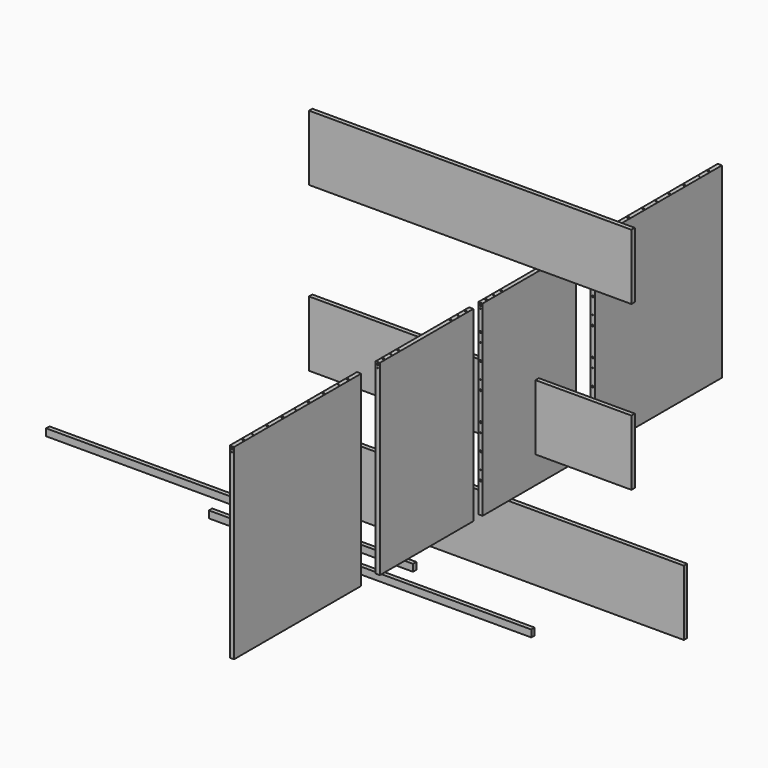
from build123d import *

# Parameters (mm, degrees)
F0_W      = 500
F0_H      = 800
F3_DEPTH  = 18
F4_D      = 4.5
F4_DEPTH  = 10
F4_TIP    = 1.3519363928
F5_D      = 8
F5_DEPTH  = 10
F5_TIP    = 2.4034424761
F6_D      = 5
F6_DEPTH  = 10
F6_TIP    = 1.5021515476
F7_W      = 680
F7_H      = 800
F8_DEPTH  = 18
F10_D     = 4
F11_D     = 8
F12_W     = 1570
F12_H     = 280
F13_DEPTH = 18
F14_W     = 1570
F14_H     = 280
F15_DEPTH = 18
F14_W_2   = 1380
F18_D     = 8
F18_DEPTH = 20
F18_TIP   = 2.4034424761
F19_D     = 5
F19_DEPTH = 60
F19_TIP   = 1.5021515476
F21_D     = 4
F21_DEPTH = 40
F21_TIP   = 1.2017212381
F22_D     = 8
F22_DEPTH = 30
F22_TIP   = 2.4034424761
F24_W     = 1570
F24_H     = 30
F25_DEPTH = 18
F27_D     = 8
F27_DEPTH = 10
F27_TIP   = 2.4034424761
F28_D     = 4
F28_DEPTH = 10
F28_TIP   = 1.2017212381
F29_W     = 1380
F29_H     = 30
F30_DEPTH = 18
F32_D     = 4
F32_DEPTH = 10
F32_TIP   = 1.2017212381
F33_D     = 8
F33_DEPTH = 10
F33_TIP   = 2.4034424761
F35_D     = 8
F35_DEPTH = 20
F35_TIP   = 2.4034424761
F36_D     = 4
F36_DEPTH = 40
F36_TIP   = 1.2017212381
F38_D     = 8
F39_D     = 4
F41_D     = 4
F41_DEPTH = 40
F41_START = 600
F41_TIP   = 1.2017212381
F42_D     = 8
F42_DEPTH = 25
F42_START = 600
F42_TIP   = 2.4034424761
F45_D     = 8
F45_DEPTH = 10
F45_TIP   = 2.4034424761
F46_D     = 8
F46_DEPTH = 10
F46_TIP   = 2.4034424761
F47_D     = 4
F47_DEPTH = 12
F47_TIP   = 1.2017212381
F48_D     = 4
F48_DEPTH = 12
F48_TIP   = 1.2017212381


with BuildPart() as f3:
    # F0 (on Right) → F3 (new body)
    with BuildSketch(Plane.YZ):
        with Locations((-50.6659869477, 87.4944338164)):
            Rectangle(F0_W, F0_H)
    extrude(amount=F3_DEPTH)

    # F4
    with Locations(Plane(origin=(0, 0, 0), x_dir=(0, 1, 0), z_dir=(-1, 0, 0))):
        with Locations((114.6340130523, 191.5055661836), (50.6340130523, 191.5055661836), (-162.4159869477, 191.5055661836), (-226.4159869477, 191.5055661836), (114.6340130523, 21.5055661836), (50.6340130523, 21.5055661836), (-162.4159869477, 21.5055661836), (-226.4159869477, 21.5055661836), (-226.4159869477, -318.4944338164), (-226.4159869477, -148.4944338164), (-162.4159869477, -148.4944338164), (-162.4159869477, -318.4944338164), (114.6340130523, -318.4944338164), (114.6340130523, -148.4944338164), (50.6340130523, -148.4944338164), (50.6340130523, -318.4944338164)):
            Hole(F4_D / 2, depth=F4_DEPTH)
            with Locations((0, 0, -(F4_DEPTH + F4_TIP / 2))):  # 118° drill point
                Cone(0, F4_D / 2, F4_TIP, mode=Mode.SUBTRACT)

    # F5
    with Locations(Plane(origin=(0, 0, 0), x_dir=(0, 1, 0), z_dir=(-1, 0, 0))):
        with Locations((-250.6659869477, 262.5055661836), (-150.6659869477, 262.5055661836), (-50.6659869477, 262.5055661836), (49.3340130523, 262.5055661836), (149.3340130523, 262.5055661836), (149.3340130523, -392.4944338164), (49.3340130523, -392.4944338164), (-50.6659869477, -392.4944338164), (-250.6659869477, -392.4944338164), (-150.6659869477, -392.4944338164)):
            Hole(F5_D / 2, depth=F5_DEPTH)
            with Locations((0, 0, -(F5_DEPTH + F5_TIP / 2))):  # 118° drill point
                Cone(0, F5_D / 2, F5_TIP, mode=Mode.SUBTRACT)

    # F6
    with Locations(Plane(origin=(0, 0, 0), x_dir=(0, 1, 0), z_dir=(-1, 0, 0))):
        with Locations((99.3340130523, 262.5055661836), (-200.6659869477, 262.5055661836), (99.3340130523, -392.4944338164), (-200.6659869477, -392.4944338164)):
            Hole(F6_D / 2, depth=F6_DEPTH)
            with Locations((0, 0, -(F6_DEPTH + F6_TIP / 2))):  # 118° drill point
                Cone(0, F6_D / 2, F6_TIP, mode=Mode.SUBTRACT)

    # F18
    with Locations(Plane.XY.offset(487.4944338164)):
        with Locations((9, 169.3340130523), (9, 89.3340130523), (9, -190.6659869477), (9, -270.6659869477)):
            Hole(F18_D / 2, depth=F18_DEPTH)
            with Locations((0, 0, -(F18_DEPTH + F18_TIP / 2))):  # 118° drill point
                Cone(0, F18_D / 2, F18_TIP, mode=Mode.SUBTRACT)

    # F19
    with Locations(Plane.XY.offset(487.4944338164)):
        with Locations((9, 129.3340130523), (9, -230.6659869477)):
            Hole(F19_D / 2, depth=F19_DEPTH)
            with Locations((0, 0, -(F19_DEPTH + F19_TIP / 2))):  # 118° drill point
                Cone(0, F19_D / 2, F19_TIP, mode=Mode.SUBTRACT)

    # F35
    with Locations(Plane.XZ.offset(300.6659869477)):
        with Locations((9, 377.4944338164), (9, 267.4944338164), (9, 157.4944338164), (9, -182.5055661836), (9, -72.5055661836), (9, 37.4944338164)):
            Hole(F35_D / 2, depth=F35_DEPTH)
            with Locations((0, 0, -(F35_DEPTH + F35_TIP / 2))):  # 118° drill point
                Cone(0, F35_D / 2, F35_TIP, mode=Mode.SUBTRACT)

    # F36
    with Locations(Plane.XZ.offset(300.6659869477)):
        with Locations((9, 337.4944338164), (9, 197.4944338164), (9, -2.5055661836), (9, -142.5055661836)):
            Hole(F36_D / 2, depth=F36_DEPTH)
            with Locations((0, 0, -(F36_DEPTH + F36_TIP / 2))):  # 118° drill point
                Cone(0, F36_D / 2, F36_TIP, mode=Mode.SUBTRACT)

    # F38 (through all)
    with Locations(Plane(origin=(0, 199.3340130523, 0), x_dir=(-1, 0, 0), z_dir=(0, 1, 0))):
        with Locations((-9, 478.4944338164)):
            Hole(F38_D / 2)

    # F39 (through all)
    with Locations(Plane(origin=(0, 199.3340130523, 0), x_dir=(-1, 0, 0), z_dir=(0, 1, 0))):
        with Locations((-9, 464.9944338164)):
            Hole(F39_D / 2)


with BuildPart() as f8:
    # F7 (on Right) → F8 (new body)
    with BuildSketch(Plane.YZ):
        with Locations((639.3340130523, 87.4944338164)):
            Rectangle(F7_W, F7_H)
    extrude(amount=F8_DEPTH)

    # F10 (through all)
    with Locations(Plane(origin=(0, 979.3340130523, 0), x_dir=(-1, 0, 0), z_dir=(0, 1, 0))):
        with Locations((-9, 464.9944338164)):
            Hole(F10_D / 2)

    # F11 (through all)
    with Locations(Plane(origin=(0, 979.3340130523, 0), x_dir=(-1, 0, 0), z_dir=(0, 1, 0))):
        with Locations((-9, 478.4944338164)):
            Hole(F11_D / 2)

    # F21
    with Locations(Plane.XY.offset(487.4944338164)):
        with Locations((9, 869.3340130523), (9, 639.3340130523), (9, 409.3340130523)):
            Hole(F21_D / 2, depth=F21_DEPTH)
            with Locations((0, 0, -(F21_DEPTH + F21_TIP / 2))):  # 118° drill point
                Cone(0, F21_D / 2, F21_TIP, mode=Mode.SUBTRACT)

    # F22
    with Locations(Plane.XY.offset(487.4944338164)):
        with Locations((9, 359.3340130523), (9, 489.3340130523), (9, 569.3340130523), (9, 709.3340130523), (9, 789.3340130523), (9, 919.3340130523)):
            Hole(F22_D / 2, depth=F22_DEPTH)
            with Locations((0, 0, -(F22_DEPTH + F22_TIP / 2))):  # 118° drill point
                Cone(0, F22_D / 2, F22_TIP, mode=Mode.SUBTRACT)

    # F41
    # its depths count from where the whole tool has entered the part; down to there all is cleared
    with Locations(Plane.XZ.offset(300.6659869477)):
        with Locations((9, 337.4944338164), (9, 197.4944338164), (9, -2.5055661836), (9, -142.5055661836)):
            Hole(F41_D / 2, depth=F41_START)
    with Locations(Plane.XZ.offset(300.6659869477).offset(-F41_START)):
        with Locations((9, 337.4944338164), (9, 197.4944338164), (9, -2.5055661836), (9, -142.5055661836)):
            Hole(F41_D / 2, depth=F41_DEPTH)
            with Locations((0, 0, -(F41_DEPTH + F41_TIP / 2))):  # 118° drill point
                Cone(0, F41_D / 2, F41_TIP, mode=Mode.SUBTRACT)

    # F42
    # its depths count from where the whole tool has entered the part; down to there all is cleared
    with Locations(Plane.XZ.offset(300.6659869477)):
        with Locations((9, 377.4944338164), (9, 267.4944338164), (9, 157.4944338164), (9, 37.4944338164), (9, -72.5055661836), (9, -182.5055661836)):
            Hole(F42_D / 2, depth=F42_START)
    with Locations(Plane.XZ.offset(300.6659869477).offset(-F42_START)):
        with Locations((9, 377.4944338164), (9, 267.4944338164), (9, 157.4944338164), (9, 37.4944338164), (9, -72.5055661836), (9, -182.5055661836)):
            Hole(F42_D / 2, depth=F42_DEPTH)
            with Locations((0, 0, -(F42_DEPTH + F42_TIP / 2))):  # 118° drill point
                Cone(0, F42_D / 2, F42_TIP, mode=Mode.SUBTRACT)


with BuildPart() as f13:
    # F12 (on Front) → F13 (new body)
    with BuildSketch(Plane.XZ):
        with Locations((-131.9031941891, -548.7108457167)):
            Rectangle(F12_W, F12_H)
    extrude(amount=F13_DEPTH)

    # F46
    with Locations(Plane(origin=(0, 0, 0), x_dir=(-1, 0, 0), z_dir=(0, 1, 0))):
        with Locations((-644.0968058109, -438.7108457167), (-644.0968058109, -548.7108457167), (-644.0968058109, -658.7108457167), (907.9031941891, -438.7108457167), (907.9031941891, -548.7108457167), (907.9031941891, -658.7108457167)):
            Hole(F46_D / 2, depth=F46_DEPTH)
            with Locations((0, 0, -(F46_DEPTH + F46_TIP / 2))):  # 118° drill point
                Cone(0, F46_D / 2, F46_TIP, mode=Mode.SUBTRACT)

    # F47
    with Locations(Plane(origin=(0, 0, 0), x_dir=(-1, 0, 0), z_dir=(0, 1, 0))):
        with Locations((-644.0968058109, -478.7108457167), (-644.0968058109, -618.7108457167), (907.9031941891, -618.7108457167), (907.9031941891, -478.7108457167)):
            Hole(F47_D / 2, depth=F47_DEPTH)
            with Locations((0, 0, -(F47_DEPTH + F47_TIP / 2))):  # 118° drill point
                Cone(0, F47_D / 2, F47_TIP, mode=Mode.SUBTRACT)


with BuildPart() as f15:
    # F14 (on Front) → F15 (new body)
    with BuildSketch(Plane.XZ):
        with Locations((-131.9031941891, -548.7108457167)):
            Rectangle(F14_W, F14_H)
    extrude(amount=F15_DEPTH)


with BuildPart() as f15b:
    # F14 (on Front) → F15, piece 2 (new body)
    with BuildSketch(Plane.XZ):
        with Locations((-261.5306949615, -56.0900127888)):
            Rectangle(F14_W_2, F14_H)
    extrude(amount=F15_DEPTH)

    # F45
    with Locations(Plane(origin=(0, 0, 0), x_dir=(-1, 0, 0), z_dir=(0, 1, 0))):
        with Locations((-419.4693050385, 53.9099872112), (-419.4693050385, -56.0900127888), (-419.4693050385, -166.0900127888), (942.5306949615, -166.0900127888), (942.5306949615, -56.0900127888), (942.5306949615, 53.9099872112)):
            Hole(F45_D / 2, depth=F45_DEPTH)
            with Locations((0, 0, -(F45_DEPTH + F45_TIP / 2))):  # 118° drill point
                Cone(0, F45_D / 2, F45_TIP, mode=Mode.SUBTRACT)

    # F48
    with Locations(Plane(origin=(0, 0, 0), x_dir=(-1, 0, 0), z_dir=(0, 1, 0))):
        with Locations((-419.4693050385, 13.9099872112), (-419.4693050385, -126.0900127888), (942.5306949615, -126.0900127888), (942.5306949615, 13.9099872112)):
            Hole(F48_D / 2, depth=F48_DEPTH)
            with Locations((0, 0, -(F48_DEPTH + F48_TIP / 2))):  # 118° drill point
                Cone(0, F48_D / 2, F48_TIP, mode=Mode.SUBTRACT)


with BuildPart() as f25:
    # F24 (on Front) → F25 (new body)
    with BuildSketch(Plane.XZ):
        with Locations((-1291.3920255528, -793.7992012501)):
            Rectangle(F24_W, F24_H)
    extrude(amount=F25_DEPTH)

    # F27
    with Locations(Plane(origin=(0, 0, 0), x_dir=(-1, 0, 0), z_dir=(0, 1, 0))):
        with Locations((2067.3920255528, -787.7992012501), (515.3920255528, -787.7992012501)):
            Hole(F27_D / 2, depth=F27_DEPTH)
            with Locations((0, 0, -(F27_DEPTH + F27_TIP / 2))):  # 118° drill point
                Cone(0, F27_D / 2, F27_TIP, mode=Mode.SUBTRACT)

    # F28
    with Locations(Plane(origin=(0, 0, 0), x_dir=(-1, 0, 0), z_dir=(0, 1, 0))):
        with Locations((515.3920255528, -801.2992012501), (2067.3920255528, -801.2992012501)):
            Hole(F28_D / 2, depth=F28_DEPTH)
            with Locations((0, 0, -(F28_DEPTH + F28_TIP / 2))):  # 118° drill point
                Cone(0, F28_D / 2, F28_TIP, mode=Mode.SUBTRACT)


with BuildPart() as f30:
    # F29 (on Front) → F30 (new body)
    with BuildSketch(Plane.XZ):
        with Locations((-690, -876.5716409683)):
            Rectangle(F29_W, F29_H)
    extrude(amount=F30_DEPTH)

    # F32
    with Locations(Plane(origin=(0, 0, 0), x_dir=(-1, 0, 0), z_dir=(0, 1, 0))):
        with Locations((9, -884.0716409683), (1371, -884.0716409683)):
            Hole(F32_D / 2, depth=F32_DEPTH)
            with Locations((0, 0, -(F32_DEPTH + F32_TIP / 2))):  # 118° drill point
                Cone(0, F32_D / 2, F32_TIP, mode=Mode.SUBTRACT)

    # F33
    with Locations(Plane(origin=(0, 0, 0), x_dir=(-1, 0, 0), z_dir=(0, 1, 0))):
        with Locations((9, -870.5716409683), (1371, -870.5716409683)):
            Hole(F33_D / 2, depth=F33_DEPTH)
            with Locations((0, 0, -(F33_DEPTH + F33_TIP / 2))):  # 118° drill point
                Cone(0, F33_D / 2, F33_TIP, mode=Mode.SUBTRACT)


with BuildPart() as f40_1:
    # F40: instance of F3
    add(f3.part.mirror(Plane(origin=(9, -325.6659869477, 87.4944338164), x_dir=(1, 0, 0), z_dir=(0, -1, 0))))


with BuildPart() as f43_1:
    # F43: instance of F8
    add(f8.part.mirror(Plane(origin=(9, -325.6659869477, 87.4944338164), x_dir=(1, 0, 0), z_dir=(0, -1, 0))))


with BuildPart() as f49_1:
    # F49: copy of F15b
    add(f15b.part.moved(Location((0, 0, 700))))


solid = Compound([f3.part, f8.part, f13.part, f15b.part, f25.part, f30.part, f40_1.part, f43_1.part, f49_1.part])
